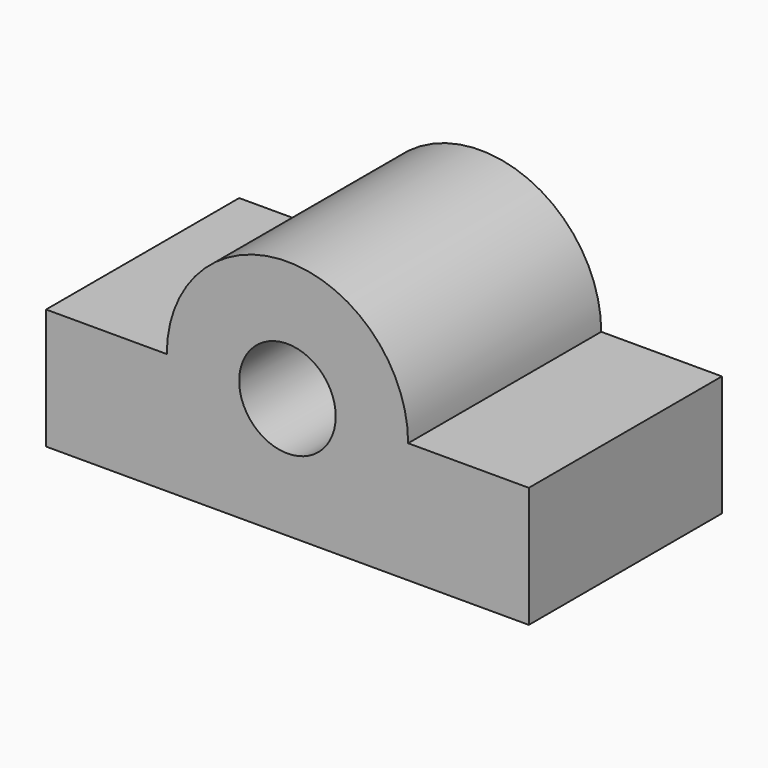
from build123d import *

# Parameters (mm, degrees)
F1_DEPTH = 1524


with BuildPart() as f1:
    # F0 (on Front) → F1 (new body)
    with BuildSketch(Plane.XZ):
        with BuildLine():
            Line((1524, 0), (762, 0))
            ThreePointArc((762, 0), (0, 762), (-762, 0))
            Line((-762, 0), (-1524, 0))
            Line((-1524, 0), (-1524, -762))
            Line((-1524, -762), (1524, -762))
            Line((1524, -762), (1524, 0))
        make_face()
        with BuildLine():
            ThreePointArc((-304.8, 0), (0, 304.8), (304.8, 0))
            ThreePointArc((304.8, 0), (0, -304.8), (-304.8, 0))
        make_face(mode=Mode.SUBTRACT)
    extrude(amount=F1_DEPTH)


solid = f1.part
